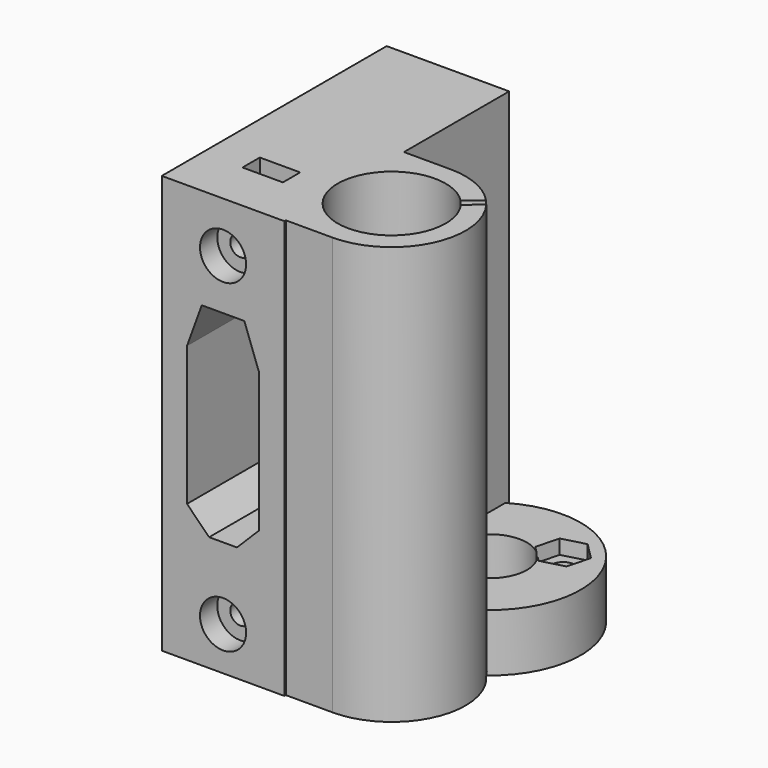
from build123d import *

# Parameters (mm, degrees)
CYLINDER011_R               = 1.4
CYLINDER011_DEPTH           = 12
CYLINDER012_R               = 3.2
CYLINDER012_DEPTH           = 4
CYLINDER013_R               = 3.2
CYLINDER013_DEPTH           = 4
CUBE016_W                   = 5.6
CUBE016_H                   = 3
CUBE016_DEPTH               = 20
CUBE017_W                   = 5.6
CUBE017_H                   = 3
CUBE017_DEPTH               = 16
CYLINDER010_R               = 1.4
CYLINDER010_DEPTH           = 12
CYLINDER008_R               = 6
CYLINDER008_DEPTH           = 11
CYLINDER009_R               = 6
CYLINDER009_DEPTH           = 11
CYLINDER007_R               = 3.1
CYLINDER007_DEPTH           = 10
PRISM004_DEPTH              = 80
PRISM004_ROLL_ANGLE         = -90
PRISM004_PITCH_ANGLE        = -60
PRISM004_PLACEMENT_ANGLE    = 90
CYLINDER006_R               = 1.8
CYLINDER006_DEPTH           = 80
CUBE007_W                   = 10
CUBE007_H                   = 65
CUBE007_DEPTH               = 28
CUBE007_PLACEMENT_ANGLE     = 20
CUBE008_W                   = 10
CUBE008_H                   = 65
CUBE008_DEPTH               = 28
CUBE008_PLACEMENT_ANGLE     = 45
CUBE009_W                   = 10
CUBE009_H                   = 65
CUBE009_DEPTH               = 28
CUBE009_PLACEMENT_ANGLE     = 45
CUBE006_W                   = 10
CUBE006_H                   = 65
CUBE006_DEPTH               = 28
CUBE006_PLACEMENT_ANGLE     = 20
CUBE005_W                   = 10
CUBE005_H                   = 65
CUBE005_DEPTH               = 28
CUBE004_W                   = 18
CUBE004_H                   = 1
CUBE004_DEPTH               = 28
CUBE011_W                   = 7.7
CUBE011_H                   = 3.85
CUBE011_DEPTH               = 50
CUBE010_W                   = 3.85
CUBE010_H                   = 3.85
CUBE010_DEPTH               = 50
CUBE010_PLACEMENT_ANGLE     = 45
PRISM_DEPTH                 = 50
GROUP003_PLACEMENT_ANGLE    = 90
CUBE013_W                   = 7.7
CUBE013_H                   = 3.85
CUBE013_DEPTH               = 50
CUBE012_W                   = 3.85
CUBE012_H                   = 3.85
CUBE012_DEPTH               = 50
CUBE012_PLACEMENT_ANGLE     = 45
PRISM001_DEPTH              = 50
GROUP004_PLACEMENT_ANGLE    = 90
CYLINDER003_R               = 5.16233
CYLINDER003_DEPTH           = 9.01
CYLINDER004_R               = 1.6
CYLINDER004_DEPTH           = 10
CYLINDER004_PLACEMENT_ANGLE = 225
CYLINDER005_R               = 1.6
CYLINDER005_DEPTH           = 10
CYLINDER005_PLACEMENT_ANGLE = 225
PRISM002_DEPTH              = 3
PRISM002_PLACEMENT_ANGLE    = 225
PRISM003_DEPTH              = 3
PRISM003_PLACEMENT_ANGLE    = 255
CUBE014_W                   = 5
CUBE014_H                   = 5
CUBE014_DEPTH               = 3
CUBE014_PLACEMENT_ANGLE     = 30
CUBE015_W                   = 5
CUBE015_H                   = 10
CUBE015_DEPTH               = 3
CUBE015_PLACEMENT_ANGLE     = 60
CUBE003_W                   = 6
CUBE003_H                   = 1
CUBE003_DEPTH               = 62
CUBE003_PLACEMENT_ANGLE     = 40
CYLINDER002_R               = 7.49334
CYLINDER002_DEPTH           = 62
CYLINDER_R                  = 10.25
CYLINDER_DEPTH              = 58
CUBE001_W                   = 14.25
CUBE001_H                   = 20.5
CUBE001_DEPTH               = 58
CYLINDER001_R               = 12.6247
CYLINDER001_DEPTH           = 8
CUBE002_W                   = 10
CUBE002_H                   = 5
CUBE002_DEPTH               = 1
CUBE002_PLACEMENT_ANGLE     = 48.200012
CUBE_W                      = 17
CUBE_H                      = 39
CUBE_DEPTH                  = 58


with BuildPart() as cylinder011:
    # cylinder011 → cylinder011 (new body)
    with BuildSketch(Plane(origin=(-15, 8.5, 51), x_dir=(1, 0, 0), z_dir=(0, -1, 0))):
        Circle(CYLINDER011_R)
    extrude(amount=CYLINDER011_DEPTH)


with BuildPart() as cylinder012:
    # cylinder012 → cylinder012 (new body)
    with BuildSketch(Plane(origin=(-15, 11.5, 6), x_dir=(1, 0, 0), z_dir=(0, -1, 0))):
        Circle(CYLINDER012_R)
    extrude(amount=CYLINDER012_DEPTH)


with BuildPart() as cylinder013:
    # cylinder013 → cylinder013 (new body)
    with BuildSketch(Plane(origin=(-15, 11.5, 51), x_dir=(1, 0, 0), z_dir=(0, -1, 0))):
        Circle(CYLINDER013_R)
    extrude(amount=CYLINDER013_DEPTH)


with BuildPart() as cube016:
    # cube016 → cube016 (new body)
    with BuildSketch(Plane(origin=(-17.9, 0.5, 47.4), x_dir=(1, 0, 0), z_dir=(0, 0, 1))):
        with Locations((2.8, 1.5)):
            Rectangle(CUBE016_W, CUBE016_H)
    extrude(amount=CUBE016_DEPTH)


with BuildPart() as cube017:
    # cube017 → cube017 (new body)
    with BuildSketch(Plane(origin=(-17.9, 0.5, -6.9), x_dir=(1, 0, 0), z_dir=(0, 0, 1))):
        with Locations((2.8, 1.5)):
            Rectangle(CUBE017_W, CUBE017_H)
    extrude(amount=CUBE017_DEPTH)


with BuildPart() as group007:
    # cylinder010 → cylinder010 (new body)
    with BuildSketch(Plane(origin=(-15, 8.5, 6), x_dir=(1, 0, 0), z_dir=(0, -1, 0))):
        Circle(CYLINDER010_R)
    extrude(amount=CYLINDER010_DEPTH)

    # Group007: union cylinder011, cylinder012, cylinder013, cube016, cube017
    add(cylinder011.part)
    add(cylinder012.part)
    add(cylinder013.part)
    add(cube016.part)
    add(cube017.part)


with BuildPart() as cylinder008:
    # cylinder008 → cylinder008 (new body)
    with BuildSketch(Plane(origin=(-15, 8.5, 6), x_dir=(1, 0, 0), z_dir=(0, -1, 0))):
        Circle(CYLINDER008_R)
    extrude(amount=CYLINDER008_DEPTH)


with BuildPart() as cylinder009:
    # cylinder009 → cylinder009 (new body)
    with BuildSketch(Plane(origin=(-15, 8.5, 51), x_dir=(1, 0, 0), z_dir=(0, -1, 0))):
        Circle(CYLINDER009_R)
    extrude(amount=CYLINDER009_DEPTH)


with BuildPart() as cylinder007:
    # cylinder007 → cylinder007 (new body)
    with BuildSketch(Plane(origin=(1.5, -22, 30.25), x_dir=(0, 0, 1), z_dir=(-1, 0, 0))):
        Circle(CYLINDER007_R)
    extrude(amount=CYLINDER007_DEPTH)


with BuildPart() as prism004:
    # prism004 → prism004 (new body)
    with BuildSketch(Plane.XY):
        Polygon((3.2, 0), (1.6, 2.771281), (-1.6, 2.771281), (-3.2, 0), (-1.6, -2.771281), (1.6, -2.771281), align=None)
    extrude(amount=PRISM004_DEPTH)


with BuildPart() as prism004_1:
    # prism004 roll: moved
    add(prism004.part.rotate(Axis((0, 0, 0), (1, 0, 0)), PRISM004_ROLL_ANGLE))


with BuildPart() as prism004_2:
    # prism004 pitch: moved
    add(prism004_1.part.rotate(Axis((0, 0, 0), (0, 1, 0)), PRISM004_PITCH_ANGLE))


with BuildPart() as prism004_3:
    # prism004 placement: moved
    add(prism004_2.part.moved(Location((-21.5, -22, 30.25))).rotate(Axis((-21.5, -22, 30.25), (0, 0, 1)), PRISM004_PLACEMENT_ANGLE))


with BuildPart() as matrix_union001:
    # cylinder006 → cylinder006 (new body)
    with BuildSketch(Plane(origin=(0, -22, 30.25), x_dir=(0, 0, 1), z_dir=(-1, 0, 0))):
        Circle(CYLINDER006_R)
    extrude(amount=CYLINDER006_DEPTH)

    # Matrix_Union001: union cylinder007, prism004
    add(cylinder007.part)
    add(prism004_3.part)


with BuildPart() as matrix_union001_1:
    # Matrix_Union001 placement: moved
    add(matrix_union001.part.moved(Location((0, 3.5, 0))))


with BuildPart() as cube007:
    # cube007 → cube007 (new body)
    with BuildSketch(Plane.XY):
        with Locations((5, 32.5)):
            Rectangle(CUBE007_W, CUBE007_H)
    extrude(amount=CUBE007_DEPTH)


with BuildPart() as cube007_1:
    # cube007 placement: moved
    add(cube007.part.moved(Location((-8.910181, -42.5, 38.134203))).rotate(Axis((-8.910181, -42.5, 38.134203), (0, -1, 0)), CUBE007_PLACEMENT_ANGLE))


with BuildPart() as cube008:
    # cube008 → cube008 (new body)
    with BuildSketch(Plane.XY):
        with Locations((5, 32.5)):
            Rectangle(CUBE008_W, CUBE008_H)
    extrude(amount=CUBE008_DEPTH)


with BuildPart() as cube008_1:
    # cube008 placement: moved
    add(cube008.part.moved(Location((-27.435029, -42.5, 0.636039))).rotate(Axis((-27.435029, -42.5, 0.636039), (0, 1, 0)), CUBE008_PLACEMENT_ANGLE))


with BuildPart() as cube009:
    # cube009 → cube009 (new body)
    with BuildSketch(Plane.XY):
        with Locations((5, 32.5)):
            Rectangle(CUBE009_W, CUBE009_H)
    extrude(amount=CUBE009_DEPTH)


with BuildPart() as cube009_1:
    # cube009 placement: moved
    add(cube009.part.moved(Location((-7.636039, -42.5, -6.435029))).rotate(Axis((-7.636039, -42.5, -6.435029), (0, -1, 0)), CUBE009_PLACEMENT_ANGLE))


with BuildPart() as union:
    # cube006 → cube006 (new body)
    with BuildSketch(Plane.XY):
        with Locations((5, 32.5)):
            Rectangle(CUBE006_W, CUBE006_H)
    extrude(amount=CUBE006_DEPTH)


with BuildPart() as union_1:
    # cube006 placement: moved
    add(union.part.moved(Location((-28.486745, -42.5, 41.554404))).rotate(Axis((-28.486745, -42.5, 41.554404), (0, 1, 0)), CUBE006_PLACEMENT_ANGLE))

    # union: union cube007, cube008, cube009
    add(cube007_1.part)
    add(cube008_1.part)
    add(cube009_1.part)


with BuildPart() as difference:
    # cube005 → cube005 (new body)
    with BuildSketch(Plane(origin=(-19, -42.5, 16), x_dir=(1, 0, 0), z_dir=(0, 0, 1))):
        with Locations((5, 32.5)):
            Rectangle(CUBE005_W, CUBE005_H)
    extrude(amount=CUBE005_DEPTH)

    # difference: cut union
    add(union_1.part, mode=Mode.SUBTRACT)


with BuildPart() as matrix_union:
    # cube004 → cube004 (new body)
    with BuildSketch(Plane(origin=(-23, -11.5, 16), x_dir=(1, 0, 0), z_dir=(0, 0, 1))):
        with Locations((9, 0.5)):
            Rectangle(CUBE004_W, CUBE004_H)
    extrude(amount=CUBE004_DEPTH)

    # Matrix_Union: union difference
    add(difference.part)


with BuildPart() as matrix_union_1:
    # Matrix_Union placement: moved
    add(matrix_union.part.moved(Location((-1, 0, 0))))


with BuildPart() as cube011:
    # cube011 → cube011 (new body)
    with BuildSketch(Plane(origin=(-3.85, -8.1, 0), x_dir=(1, 0, 0), z_dir=(0, 0, 1))):
        with Locations((3.85, 1.925)):
            Rectangle(CUBE011_W, CUBE011_H)
    extrude(amount=CUBE011_DEPTH)


with BuildPart() as difference001:
    # cube010 → cube010 (new body)
    with BuildSketch(Plane.XY):
        with Locations((1.925, 1.925)):
            Rectangle(CUBE010_W, CUBE010_H)
    extrude(amount=CUBE010_DEPTH)


with BuildPart() as difference001_1:
    # cube010 placement: moved
    add(difference001.part.moved(Location((0, -5.424111, 0))).rotate(Axis((0, -5.424111, 0), (0, 0, 1)), CUBE010_PLACEMENT_ANGLE))

    # difference001: cut cube011
    add(cube011.part, mode=Mode.SUBTRACT)


with BuildPart() as group003:
    # prism → prism (new body)
    with BuildSketch(Plane.XY):
        Polygon((4.03601, 0), (3.687079, 1.641593), (2.700618, 2.99934), (1.247196, 3.838474), (-0.421878, 4.0139), (-2.018005, 3.495287), (-3.265201, 2.372307), (-3.947813, 0.839134), (-3.947813, -0.839134), (-3.265201, -2.372307), (-2.018005, -3.495287), (-0.421878, -4.0139), (1.247196, -3.838474), (2.700618, -2.99934), (3.687079, -1.641593), align=None)
    extrude(amount=PRISM_DEPTH)

    # Group003: union difference001
    add(difference001_1.part)


with BuildPart() as group003_1:
    # Group003 placement: moved
    add(group003.part.moved(Location((-15, -41.5, 6))).rotate(Axis((-15, -41.5, 6), (-1, 0, 0)), GROUP003_PLACEMENT_ANGLE))


with BuildPart() as cube013:
    # cube013 → cube013 (new body)
    with BuildSketch(Plane(origin=(-3.85, -8.1, 0), x_dir=(1, 0, 0), z_dir=(0, 0, 1))):
        with Locations((3.85, 1.925)):
            Rectangle(CUBE013_W, CUBE013_H)
    extrude(amount=CUBE013_DEPTH)


with BuildPart() as difference002:
    # cube012 → cube012 (new body)
    with BuildSketch(Plane.XY):
        with Locations((1.925, 1.925)):
            Rectangle(CUBE012_W, CUBE012_H)
    extrude(amount=CUBE012_DEPTH)


with BuildPart() as difference002_1:
    # cube012 placement: moved
    add(difference002.part.moved(Location((0, -5.424111, 0))).rotate(Axis((0, -5.424111, 0), (0, 0, 1)), CUBE012_PLACEMENT_ANGLE))

    # difference002: cut cube013
    add(cube013.part, mode=Mode.SUBTRACT)


with BuildPart() as group004:
    # prism001 → prism001 (new body)
    with BuildSketch(Plane.XY):
        Polygon((4.03601, 0), (3.687079, 1.641593), (2.700618, 2.99934), (1.247196, 3.838474), (-0.421878, 4.0139), (-2.018005, 3.495287), (-3.265201, 2.372307), (-3.947813, 0.839134), (-3.947813, -0.839134), (-3.265201, -2.372307), (-2.018005, -3.495287), (-0.421878, -4.0139), (1.247196, -3.838474), (2.700618, -2.99934), (3.687079, -1.641593), align=None)
    extrude(amount=PRISM001_DEPTH)

    # Group004: union difference002
    add(difference002_1.part)


with BuildPart() as group004_1:
    # Group004 placement: moved
    add(group004.part.moved(Location((-15, -41.5, 51))).rotate(Axis((-15, -41.5, 51), (-1, 0, 0)), GROUP004_PLACEMENT_ANGLE))


with BuildPart() as cylinder003:
    # cylinder003 → cylinder003 (new body)
    with BuildSketch(Plane(origin=(0, -17, -1), x_dir=(1, 0, 0), z_dir=(0, 0, 1))):
        Circle(CYLINDER003_R)
    extrude(amount=CYLINDER003_DEPTH)


with BuildPart() as cylinder004:
    # cylinder004 → cylinder004 (new body)
    with BuildSketch(Plane.XY):
        Circle(CYLINDER004_R)
    extrude(amount=CYLINDER004_DEPTH)


with BuildPart() as cylinder004_1:
    # cylinder004 placement: moved
    add(cylinder004.part.moved(Location((5.656854, -22.656854, -1))).rotate(Axis((5.656854, -22.656854, -1), (0, 0, 1)), CYLINDER004_PLACEMENT_ANGLE))


with BuildPart() as cylinder005:
    # cylinder005 → cylinder005 (new body)
    with BuildSketch(Plane.XY):
        Circle(CYLINDER005_R)
    extrude(amount=CYLINDER005_DEPTH)


with BuildPart() as cylinder005_1:
    # cylinder005 placement: moved
    add(cylinder005.part.moved(Location((-5.656854, -11.343146, -1))).rotate(Axis((-5.656854, -11.343146, -1), (0, 0, 1)), CYLINDER005_PLACEMENT_ANGLE))


with BuildPart() as prism002:
    # prism002 → prism002 (new body)
    with BuildSketch(Plane.XY):
        Polygon((3.3, 0), (1.65, 2.857884), (-1.65, 2.857884), (-3.3, 0), (-1.65, -2.857884), (1.65, -2.857884), align=None)
    extrude(amount=PRISM002_DEPTH)


with BuildPart() as prism002_1:
    # prism002 placement: moved
    add(prism002.part.moved(Location((5.656854, -22.656854, 6))).rotate(Axis((5.656854, -22.656854, 6), (0, 0, 1)), PRISM002_PLACEMENT_ANGLE))


with BuildPart() as prism003:
    # prism003 → prism003 (new body)
    with BuildSketch(Plane.XY):
        Polygon((3.2, 0), (1.6, 2.771281), (-1.6, 2.771281), (-3.2, 0), (-1.6, -2.771281), (1.6, -2.771281), align=None)
    extrude(amount=PRISM003_DEPTH)


with BuildPart() as prism003_1:
    # prism003 placement: moved
    add(prism003.part.moved(Location((-5.656854, -11.343146, 6))).rotate(Axis((-5.656854, -11.343146, 6), (0, 0, 1)), PRISM003_PLACEMENT_ANGLE))


with BuildPart() as cube014:
    # cube014 → cube014 (new body)
    with BuildSketch(Plane.XY):
        with Locations((2.5, 2.5)):
            Rectangle(CUBE014_W, CUBE014_H)
    extrude(amount=CUBE014_DEPTH)


with BuildPart() as cube014_1:
    # cube014 placement: moved
    add(cube014.part.moved(Location((-5.5, -17.2, 6))).rotate(Axis((-5.5, -17.2, 6), (0, 0, 1)), CUBE014_PLACEMENT_ANGLE))


with BuildPart() as cube015:
    # cube015 → cube015 (new body)
    with BuildSketch(Plane.XY):
        with Locations((2.5, 5)):
            Rectangle(CUBE015_W, CUBE015_H)
    extrude(amount=CUBE015_DEPTH)


with BuildPart() as cube015_1:
    # cube015 placement: moved
    add(cube015.part.moved(Location((0, -17.2, 6))).rotate(Axis((0, -17.2, 6), (0, 0, 1)), CUBE015_PLACEMENT_ANGLE))


with BuildPart() as cube003:
    # cube003 → cube003 (new body)
    with BuildSketch(Plane.XY):
        with Locations((3, 0.5)):
            Rectangle(CUBE003_W, CUBE003_H)
    extrude(amount=CUBE003_DEPTH)


with BuildPart() as cube003_1:
    # cube003 placement: moved
    add(cube003.part.moved(Location((3.0109, -3.179148, 0.5))).rotate(Axis((3.0109, -3.179148, 0.5), (0, 0, -1)), CUBE003_PLACEMENT_ANGLE))


with BuildPart() as group006:
    # cylinder002 → cylinder002 (new body)
    with BuildSketch(Plane.XY.offset(-1)):
        Circle(CYLINDER002_R)
    extrude(amount=CYLINDER002_DEPTH)

    # Group002: union cube003
    add(cube003_1.part)

    # Group005: union Matrix_Union, Group003, Group004, cylinder003, cylinder004, cylinder005, prism002, prism003, cube014, cube015
    add(matrix_union_1.part)
    add(group003_1.part)
    add(group004_1.part)
    add(cylinder003.part)
    add(cylinder004_1.part)
    add(cylinder005_1.part)
    add(prism002_1.part)
    add(prism003_1.part)
    add(cube014_1.part)
    add(cube015_1.part)

    # Group006: union Matrix_Union001
    add(matrix_union001_1.part)


with BuildPart() as cylinder:
    # cylinder → cylinder (new body)
    with BuildSketch(Plane.XY):
        Circle(CYLINDER_R)
    extrude(amount=CYLINDER_DEPTH)


with BuildPart() as group:
    # cube001 → cube001 (new body)
    with BuildSketch(Plane(origin=(-14.25, -10.25, 0), x_dir=(1, 0, 0), z_dir=(0, 0, 1))):
        with Locations((7.125, 10.25)):
            Rectangle(CUBE001_W, CUBE001_H)
    extrude(amount=CUBE001_DEPTH)

    # Group: union cylinder
    add(cylinder.part)


with BuildPart() as cylinder001:
    # cylinder001 → cylinder001 (new body)
    with BuildSketch(Plane(origin=(0, -17, 0), x_dir=(1, 0, 0), z_dir=(0, 0, 1))):
        Circle(CYLINDER001_R)
    extrude(amount=CYLINDER001_DEPTH)


with BuildPart() as cube002:
    # cube002 → cube002 (new body)
    with BuildSketch(Plane.XY):
        with Locations((5, 2.5)):
            Rectangle(CUBE002_W, CUBE002_H)
    extrude(amount=CUBE002_DEPTH)


with BuildPart() as cube002_1:
    # cube002 placement: moved
    add(cube002.part.moved(Location((-7.468971, -15.99371, 9.5))).rotate(Axis((-7.468971, -15.99371, 9.5), (0, 0, 1)), CUBE002_PLACEMENT_ANGLE))


with BuildPart() as difference004:
    # cube → cube (new body)
    with BuildSketch(Plane(origin=(-23.5, -28.5, 0), x_dir=(1, 0, 0), z_dir=(0, 0, 1))):
        with Locations((8.5, 19.5)):
            Rectangle(CUBE_W, CUBE_H)
    extrude(amount=CUBE_DEPTH)

    # Group001: union Group, cylinder001, cube002
    add(group.part)
    add(cylinder001.part)
    add(cube002_1.part)

    # difference003: cut Group006
    add(group006.part, mode=Mode.SUBTRACT)

    # union001: union cylinder008, cylinder009
    add(cylinder008.part)
    add(cylinder009.part)

    # difference004: cut Group007
    add(group007.part, mode=Mode.SUBTRACT)


with BuildPart() as mirrored_difference004:
    # mirr_difference004: instance of difference004
    add(difference004.part.mirror(Plane(origin=(0, 0, 0), x_dir=(1, 0, 0), z_dir=(0, 1, 0))))


solid = mirrored_difference004.part
